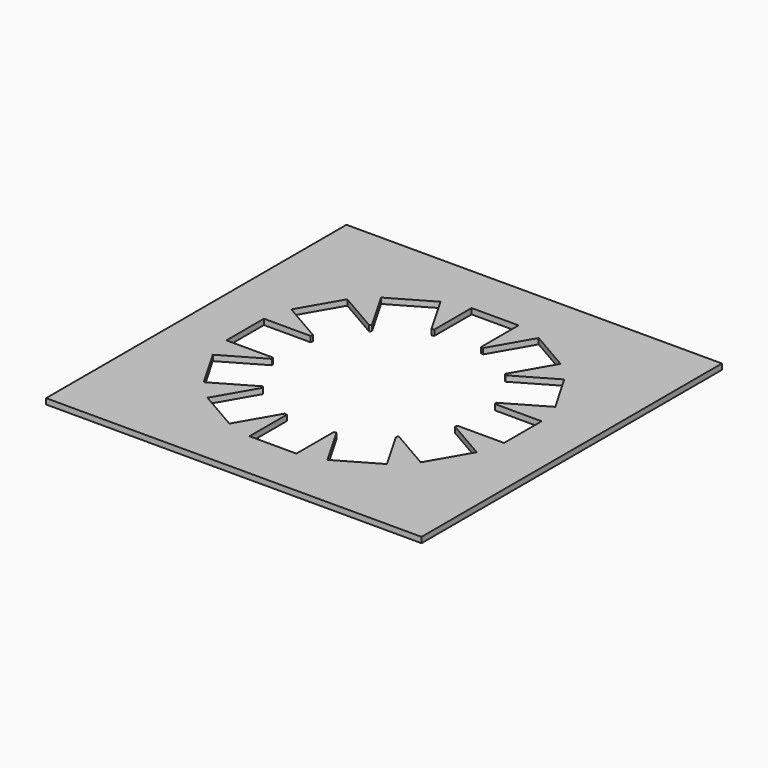
from build123d import *

# Parameters (mm, degrees)
SKETCH_W           = 399.99
SKETCH_H           = 399.99
PAD_DEPTH          = 6
SKETCH002_W        = 50
SKETCH002_H        = 50
POCKET001_DEPTH    = 1137.407205
POLARPATTERN_COUNT = 12
SKETCH003_R        = 101.355603
POCKET_DEPTH       = 6.001


with BuildPart() as part:
    # Sketch → Pad (new body)
    with BuildSketch(Plane.XY):
        Rectangle(SKETCH_W, SKETCH_H)
    extrude(amount=PAD_DEPTH)

    # Sketch002 → Pocket001 (cut, through all)
    with BuildSketch(Plane.XY.offset(6)):
        with Locations((0, 122.901995)):
            Rectangle(SKETCH002_W, SKETCH002_H)
    pocket001 = extrude(amount=-POCKET001_DEPTH, mode=Mode.SUBTRACT)

    # PolarPattern: Pocket001 ×12 about axis
    polarpattern_axis = Axis((0, 0, 6), (0, 0, 1))
    for i in range(1, POLARPATTERN_COUNT):
        add(pocket001.rotate(polarpattern_axis, i * 360 / POLARPATTERN_COUNT), mode=Mode.SUBTRACT)

    # Sketch003 → Pocket (cut, through all)
    with BuildSketch(Plane(origin=(0, 0, 0), x_dir=(-1, 0, 0), z_dir=(0, 0, -1))):
        Circle(SKETCH003_R)
    extrude(amount=-POCKET_DEPTH, mode=Mode.SUBTRACT)


solid = part.part
